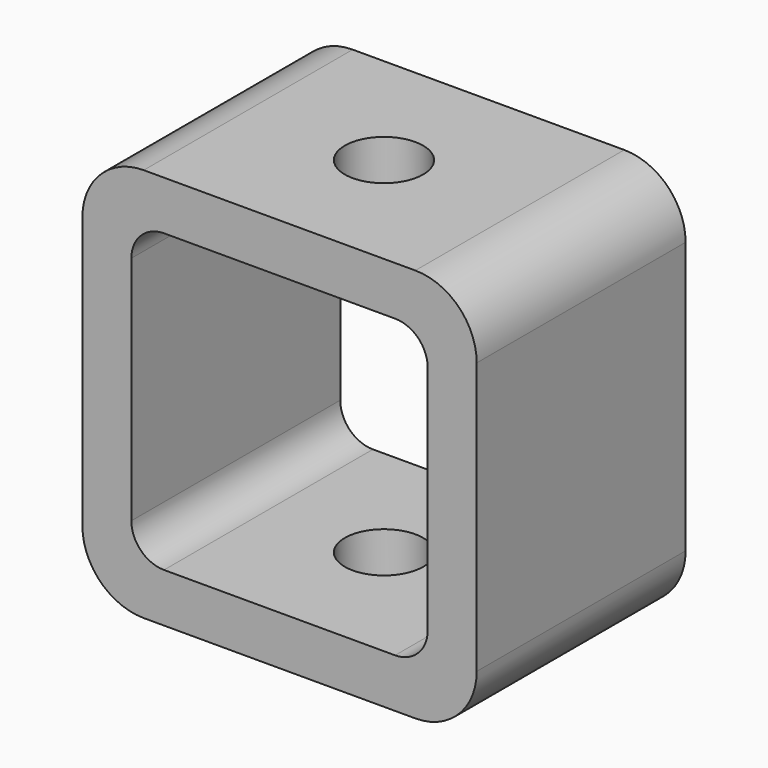
from build123d import *

# Parameters (mm, degrees)
F0_W     = 38.354
F0_H     = 38.354
F0_W_2   = 28.829
F0_H_2   = 28.829
F1_DEPTH = 12.7
F2_R     = 5.969
F3_R     = 3.175
F4_R     = 3.81
F5_DEPTH = 43.688


with BuildPart() as f1:
    # F0 (on Front) → F1 (new body, symmetric)
    with BuildSketch(Plane.XZ):
        Rectangle(F0_W, F0_H)
        Rectangle(F0_W_2, F0_H_2, mode=Mode.SUBTRACT)
    extrude(amount=F1_DEPTH, both=True)

    # F2
    f2_edges = [f1.edges().sort_by_distance(p)[0] for p in [
        (-19.177, 0, 19.177),
        (19.177, 0, 19.177),
        (19.177, 0, -19.177),
        (-19.177, 0, -19.177),
    ]]
    fillet(f2_edges, radius=F2_R)

    # F3
    f3_edges = [f1.edges().sort_by_distance(p)[0] for p in [
        (-14.4145, 0, 14.4145),
        (14.4145, 0, 14.4145),
        (14.4145, 0, -14.4145),
        (-14.4145, 0, -14.4145),
    ]]
    fillet(f3_edges, radius=F3_R)

    # F4 (on face) → F5 (cut)
    with BuildSketch(Plane.XY.offset(19.177)):
        Circle(F4_R)
    extrude(amount=-F5_DEPTH, mode=Mode.SUBTRACT)


solid = f1.part
